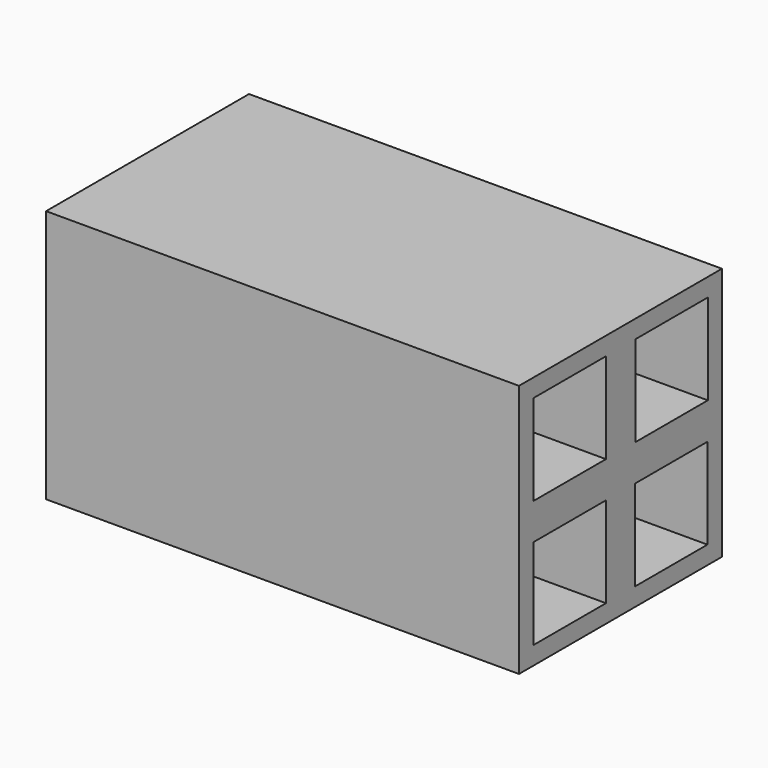
from build123d import *

# Parameters (mm, degrees)
SKETCH_W   = 140
SKETCH_H   = 140
SKETCH_W_2 = 50
SKETCH_H_2 = 50
PAD_DEPTH  = 261


with BuildPart() as part:
    # Sketch → Pad (new body)
    with BuildSketch(Plane.YZ):
        Rectangle(SKETCH_W, SKETCH_H)
        with Locations((-35.003519, 35)):
            Rectangle(SKETCH_W_2, SKETCH_H_2, mode=Mode.SUBTRACT)
        with Locations((35.282258, 35)):
            Rectangle(SKETCH_W_2, SKETCH_H_2, mode=Mode.SUBTRACT)
        with Locations((-35, -35)):
            Rectangle(SKETCH_W_2, SKETCH_H_2, mode=Mode.SUBTRACT)
        with Locations((35, -35)):
            Rectangle(SKETCH_W_2, SKETCH_H_2, mode=Mode.SUBTRACT)
    extrude(amount=PAD_DEPTH)


solid = part.part
